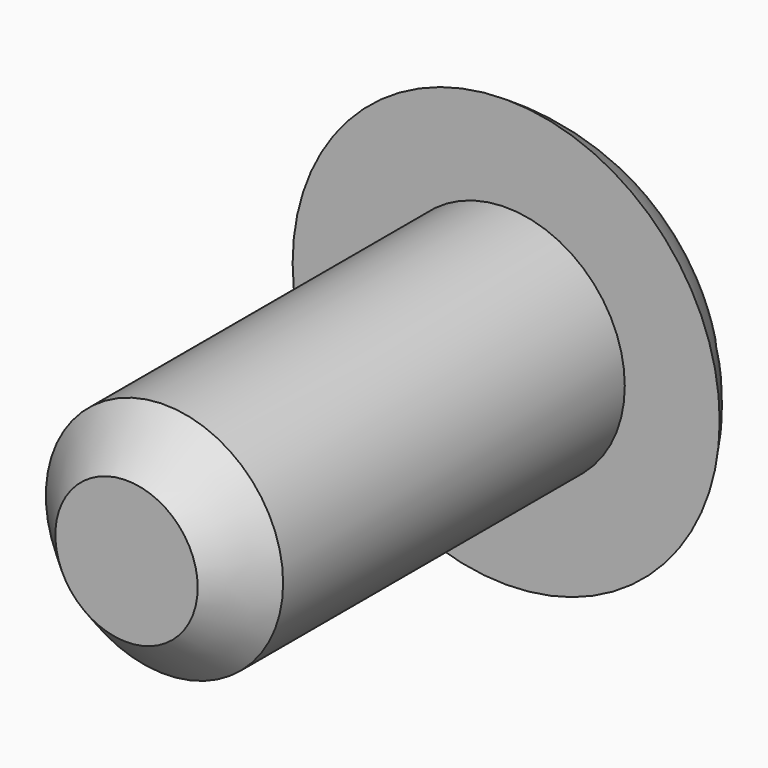
from build123d import *

# Parameters (mm, degrees)
F0_W     = 3.175
F0_H     = 12.7
F3_W     = 10.16
F3_H     = 2.54
F4_DEPTH = 2.541
F5_SIZE  = 1.27


with BuildPart() as f1:
    # F0 (on Top) → F1 (revolve)
    with BuildSketch(Plane.XY):
        with Locations((1.5875, 6.35)):
            Rectangle(F0_W, F0_H)
        with BuildLine():
            Line((0, 15.875), (0, 12.7))
            Line((0, 12.7), (3.175, 12.7))
            Line((3.175, 12.7), (5.715, 12.7))
            ThreePointArc((5.715, 12.7), (3.268863, 15.027953), (0, 15.875))
        make_face()
    revolve(axis=Axis((0, 41.607148, 0), (0, -1, 0)))

    # F3 (on offset) → F4 (cut, through all)
    with BuildSketch(Plane.XZ.offset(-13.335)):
        Rectangle(F3_W, F3_H)
    extrude(amount=-F4_DEPTH, mode=Mode.SUBTRACT)

    # F5
    f5_edges = [f1.edges().sort_by_distance(p)[0] for p in [
        (-3.175, 0, 0),
    ]]
    chamfer(f5_edges, length=F5_SIZE)


solid = f1.part
